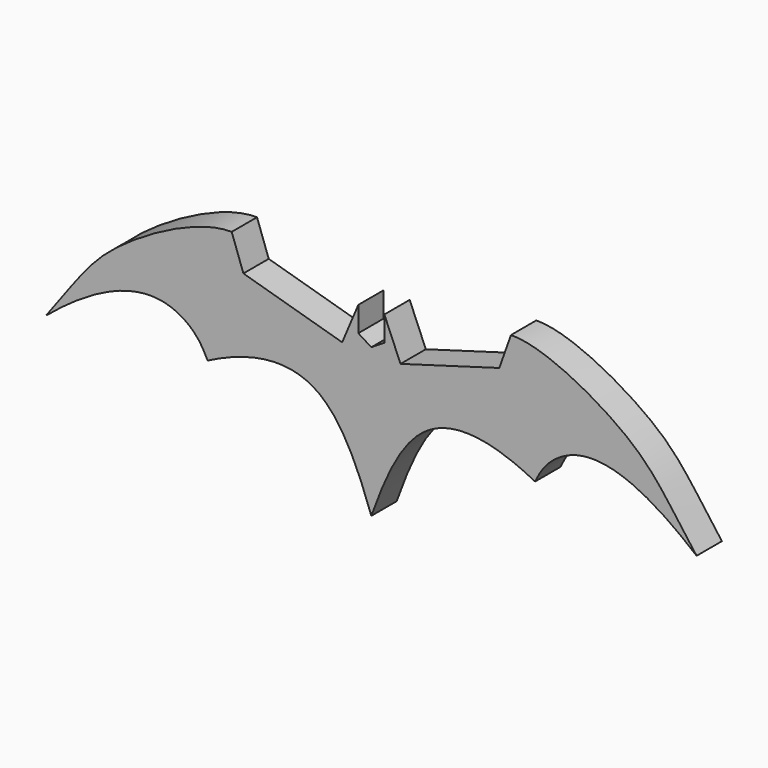
from build123d import *

# Parameters (mm, degrees)
F1_DEPTH = 7.62


with BuildPart() as f1:
    # F0 (on Front) → F1 (new body)
    with BuildSketch(Plane.XZ):
        with BuildLine():
            add(Edge.make_bspline(
                [(0, 0), (-3.4022271567, 9.5182356749), (-10.9690679678, 27.1009200022), (-28.1668864191, 25.8614681661), (-39.4263193011, 20.0893059373)],
                knots=[0, 0, 0, 0, 0.4995903231, 1, 1, 1, 1], degree=3))
            Line((0, 0), (0, 35.737555474))
            Line((0, 35.737555474), (-3.1367728952, 37.6913771033))
            Line((-3.1367728952, 37.6913771033), (-3.1367728952, 43.706933278))
            Line((-3.1367728952, 43.706933278), (-7.0221456699, 34.4971604645))
            Line((-7.0221456699, 34.4971604645), (-30.8036413044, 41.3585789502))
            Line((-30.8036413044, 41.3585789502), (-33.6170228571, 49.2606103394))
            add(Edge.make_bspline(
                [(-33.6170228571, 49.2606103394), (-41.4413912857, 49.3800380531), (-65.007380458, 36.5262842704), (-69.9772851484, 28.1731315931), (-78.3058434332, 16.9950854039)],
                knots=[0, 0, 0, 0, 0.5113918248, 1, 1, 1, 1], degree=3))
            add(Edge.make_bspline(
                [(-39.4263193011, 20.0893059373), (-40.7618194231, 23.0609141249), (-45.9085285726, 29.9278450611), (-60.4370668622, 31.9158113047), (-78.3058434332, 16.9950854039)],
                knots=[0, 0, 0, 0, 0.3412147066, 1, 1, 1, 1], degree=3))
        make_face()
        with BuildLine():
            Line((0, 35.737555474), (0, 0))
            add(Edge.make_bspline(
                [(0, 0), (3.4022271567, 9.5182356749), (10.9690679678, 27.1009200022), (28.1668864191, 25.8614681661), (39.4263193011, 20.0893059373)],
                knots=[0, 0, 0, 0, 0.4995903231, 1, 1, 1, 1], degree=3))
            add(Edge.make_bspline(
                [(39.4263193011, 20.0893059373), (40.7618194231, 23.0609141249), (45.9085285726, 29.9278450611), (60.4370668622, 31.9158113047), (78.3058434332, 16.9950854039)],
                knots=[0, 0, 0, 0, 0.3412147066, 1, 1, 1, 1], degree=3))
            add(Edge.make_bspline(
                [(33.6170228571, 49.2606103394), (41.4413912857, 49.3800380531), (65.007380458, 36.5262842704), (69.9772851484, 28.1731315931), (78.3058434332, 16.9950854039)],
                knots=[0, 0, 0, 0, 0.5113918248, 1, 1, 1, 1], degree=3))
            Line((33.6170228571, 49.2606103394), (30.8036413044, 41.3585789502))
            Line((30.8036413044, 41.3585789502), (7.0221456699, 34.4971604645))
            Line((7.0221456699, 34.4971604645), (3.1367728952, 43.706933278))
            Line((3.1367728952, 43.706933278), (3.1367728952, 37.6913771033))
            Line((3.1367728952, 37.6913771033), (0, 35.737555474))
        make_face()
    extrude(amount=F1_DEPTH)


solid = f1.part
